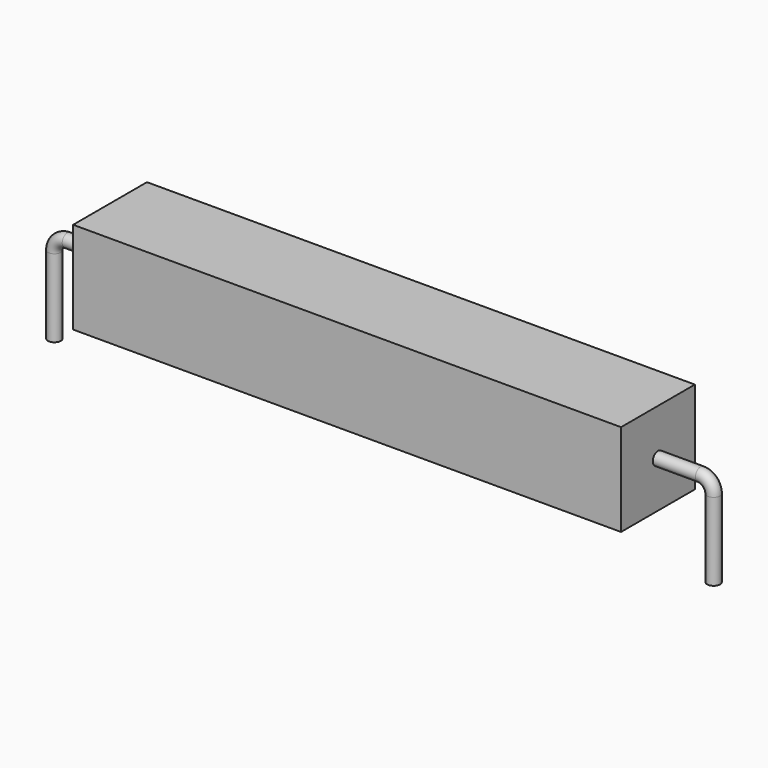
from build123d import *

# Parameters (mm, degrees)
SKETCH_R    = 0.45
SKETCH002_W = 38
SKETCH002_H = 6.4
PAD_DEPTH   = 3.2


with BuildPart() as sweep_body:
    # Sweep: sweep along a path in Sketch001
    with BuildLine(Plane.XZ) as sweep_path:
        Line((0, -3), (0, 2.4))
        ThreePointArc((0, 2.4), (0.263606, 3.036399), (0.900007, 3.3))
        Line((0.900007, 3.3), (44.82, 3.3))
        ThreePointArc((44.82, 3.3), (45.456396, 3.036396), (45.72, 2.4))
        Line((45.72, 2.4), (45.72, -3))
    # Sketch → Sweep (sweep)
    with BuildSketch(Plane.XY.offset(-2)):
        Circle(SKETCH_R)
    sweep(path=sweep_path.line)


with BuildPart() as pad:
    # Sketch002 → Pad (new body, symmetric)
    with BuildSketch(Plane.XZ):
        with Locations((22.86, 3.3)):
            Rectangle(SKETCH002_W, SKETCH002_H)
    extrude(amount=PAD_DEPTH, both=True)


solid = Compound([sweep_body.part, pad.part])
